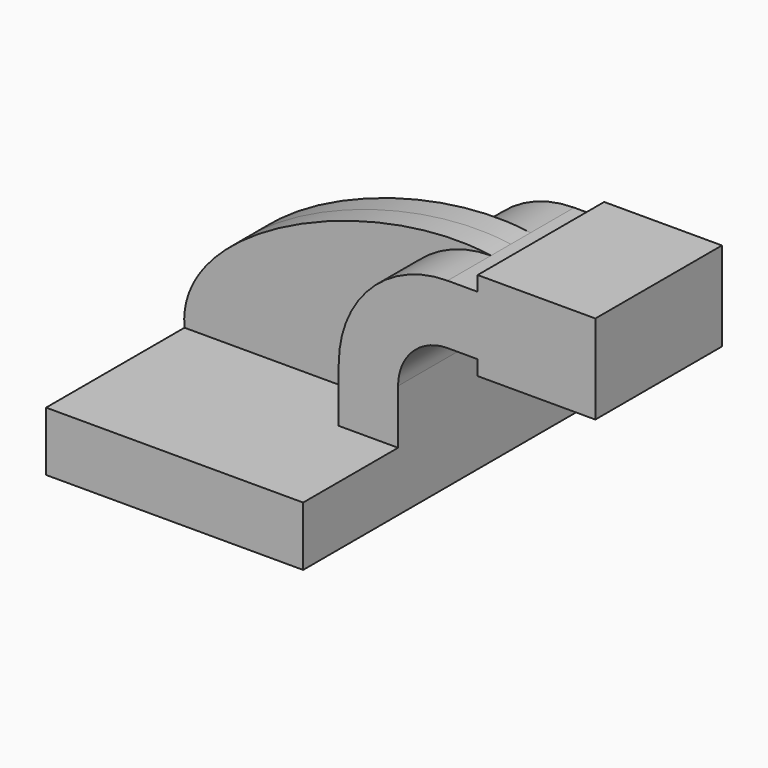
from build123d import *

# Parameters (mm, degrees)
F1_DEPTH = 63.5
F0_W     = 18.9016429644
F0_H     = 19.05
F0_H_2   = 4.7498
F0_H_3   = 4.7752
F2_DEPTH = 25.4
F3_DEPTH = 7.9375


with BuildPart() as f1:
    # F0 (on Front) → F1 (new body, symmetric)
    with BuildSketch(Plane.XZ):
        Polygon((41.275, -9.525), (41.275, 9.525), (22.225, 9.525), (-41.275, 9.525), (-41.275, -9.525), align=None)
    extrude(amount=F1_DEPTH, both=True)

    # F0 (on Front) → F2 (join, symmetric)
    with BuildSketch(Plane.XZ):
        with BuildLine():
            Line((22.225, 9.525), (41.275, 9.525))
            Line((41.275, 9.525), (41.275, 27.0002))
            ThreePointArc((41.275, 27.0002), (45.9246798487, 38.2255201513), (57.15, 42.8752))
            Line((57.15, 42.8752), (66.8233570356, 42.8752))
            Line((66.8233570356, 42.8752), (66.8233570356, 61.9252))
            Line((66.8233570356, 61.9252), (57.15, 61.9252))
            ThreePointArc((57.15, 61.9252), (32.4542956671, 51.6959043329), (22.225, 27.0002))
            Line((22.225, 27.0002), (22.225, 9.525))
        make_face()
        with Locations((76.2741785178, 52.4002)):
            Rectangle(F0_W, F0_H)
        Polygon((85.725, 61.9252), (85.725, 42.8752), (85.725, 38.1), (104.6266429644, 38.1), (104.6266429644, 66.675), (85.725, 66.675), align=None)
        with Locations((76.2741785178, 64.3001)):
            Rectangle(F0_W, F0_H_2)
        with Locations((76.2741785178, 40.4876)):
            Rectangle(F0_W, F0_H_3)
    extrude(amount=F2_DEPTH, both=True)

    # F0 (on Front) → F3 (join, symmetric)
    with BuildSketch(Plane.XZ):
        with BuildLine():
            Line((-41.275, 9.525), (22.225, 9.525))
            Line((22.225, 9.525), (22.225, 27.0002))
            ThreePointArc((22.225, 27.0002), (32.4542956671, 51.6959043329), (57.15, 61.9252))
            add(Edge.make_bspline(
                [(-41.275, 9.525), (-44.257581234, 40.212534368), (19.0355218947, 67.5760954618), (57.15, 61.9252)],
                knots=[0, 0, 0, 0, 111.5045361635, 111.5045361635, 111.5045361635, 111.5045361635], degree=3))
        make_face()
    extrude(amount=F3_DEPTH, both=True)


solid = f1.part
